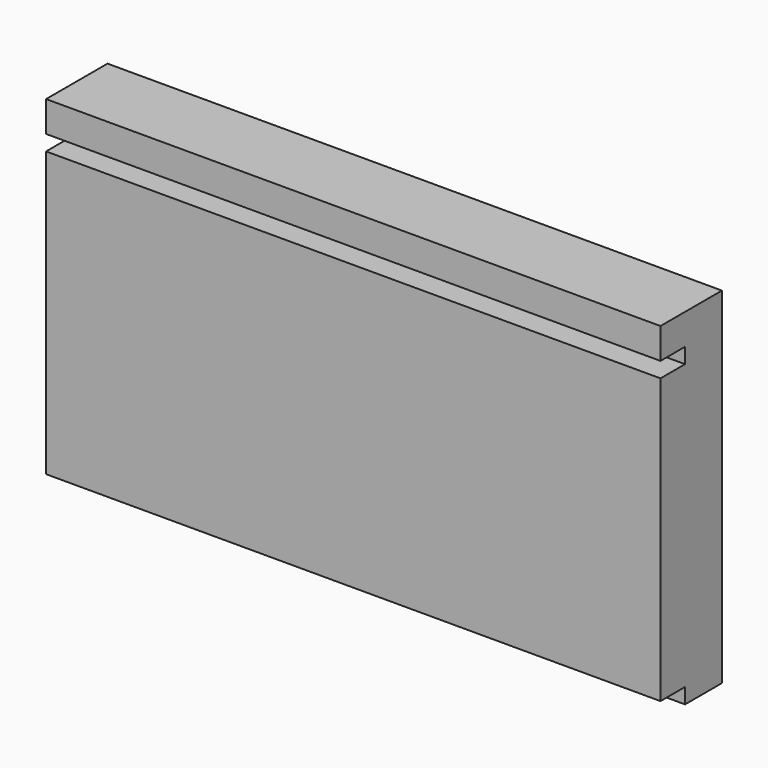
from build123d import *

# Parameters (mm, degrees)
F0_W     = 160
F0_H     = 90
F1_DEPTH = 20
F2_W     = 8
F2_H     = 4
F3_DEPTH = 160


with BuildPart() as f1:
    # F0 (on Front) → F1 (new body)
    with BuildSketch(Plane.XZ):
        with Locations((1.019965, -41.394375)):
            Rectangle(F0_W, F0_H)
    extrude(amount=F1_DEPTH)

    # F2 (on face) → F3 (cut)
    with BuildSketch(Plane.YZ.offset(81.019965)):
        with Locations((-16, -6.394375)):
            Rectangle(F2_W, F2_H)
        with Locations((-16, -84.394375)):
            Rectangle(F2_W, F2_H)
    extrude(amount=-F3_DEPTH, mode=Mode.SUBTRACT)


solid = f1.part
